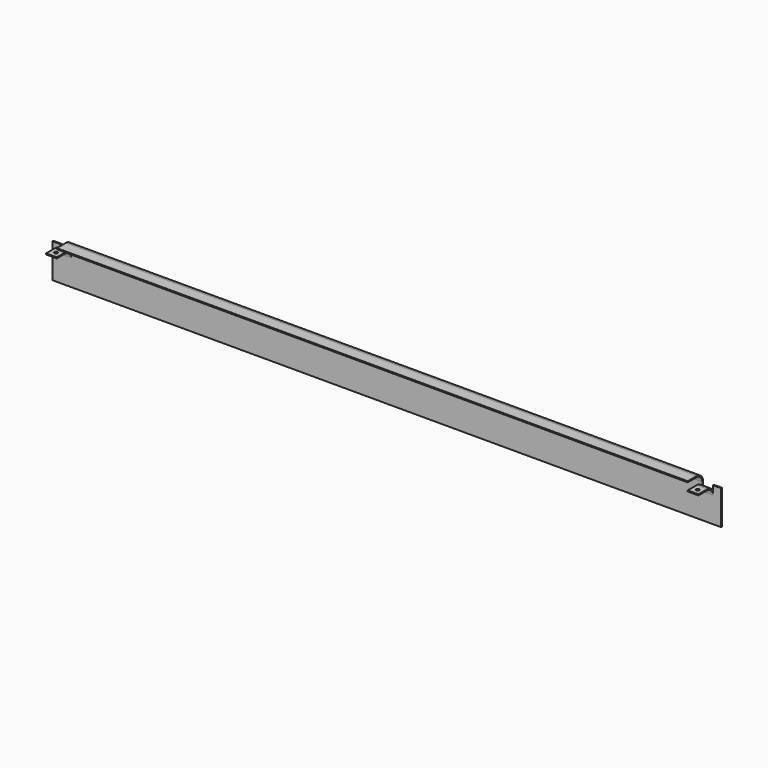
from build123d import *

# Parameters (mm, degrees)
F0_W      = 2
F0_H      = 64
F1_DEPTH  = 15
F3_DEPTH  = 20
F5_DEPTH  = 1177
F7_DEPTH  = 20
F8_W      = 2
F8_H      = 64
F9_DEPTH  = 15
F10_R     = 3
F11_DEPTH = 2
F12_R     = 3
F13_DEPTH = 2


with BuildPart() as f1:
    # F0 (on Right) → F1 (new body)
    with BuildSketch(Plane.YZ):
        Rectangle(F0_W, F0_H)
    extrude(amount=F1_DEPTH)



with BuildPart() as f3:
    # F2 (on face) → F3 (new body)
    with BuildSketch(Plane.YZ.offset(1212)):
        with BuildLine():
            Line((-1, -32), (1, -32))
            Line((1, -32), (1, 16))
            ThreePointArc((1, 16), (-3.393398, 26.606602), (-14, 31))
            Line((-14, 31), (-35, 31))
            Line((-35, 31), (-35, 29))
            Line((-35, 29), (-14, 29))
            ThreePointArc((-14, 29), (-4.807612, 25.192388), (-1, 16))
            Line((-1, 16), (-1, -32))
        make_face()
    extrude(amount=F3_DEPTH)

    # F4 (on face) → F5 (join)
    with BuildSketch(Plane.YZ.offset(35)):
        with BuildLine():
            Line((-1, -32), (1, -32))
            Line((1, -32), (1, 31))
            ThreePointArc((1, 31), (-3.393398, 41.606602), (-14, 46))
            Line((-14, 46), (-35, 46))
            Line((-35, 46), (-35, 44))
            Line((-35, 44), (-14, 44))
            ThreePointArc((-14, 44), (-4.807612, 40.192388), (-1, 31))
            Line((-1, 31), (-1, -32))
        make_face()
    extrude(amount=F5_DEPTH)


with BuildPart() as f1_1:
    add(f1.part)

    add(f3.part)  # F7 merges F3
    # F6 (on face) → F7 (join)
    with BuildSketch(Plane.YZ.offset(15)):
        with BuildLine():
            Line((-1, -32), (1, -32))
            Line((1, -32), (1, 16))
            ThreePointArc((1, 16), (-3.393398, 26.606602), (-14, 31))
            Line((-14, 31), (-35, 31))
            Line((-35, 31), (-35, 29))
            Line((-35, 29), (-14, 29))
            ThreePointArc((-14, 29), (-4.807612, 25.192388), (-1, 16))
            Line((-1, 16), (-1, -32))
        make_face()
    extrude(amount=F7_DEPTH)

    # F8 (on face) → F9 (join)
    with BuildSketch(Plane.YZ.offset(1232)):
        Rectangle(F8_W, F8_H)
    extrude(amount=F9_DEPTH)

    # F10 (on face) → F11 (cut)
    with BuildSketch(Plane.XY.offset(31)):
        with Locations((1222, -24.5)):
            Circle(F10_R)
    extrude(amount=-F11_DEPTH, mode=Mode.SUBTRACT)

    # F12 (on face) → F13 (cut)
    with BuildSketch(Plane.XY.offset(31)):
        with Locations((25, -24.5)):
            Circle(F12_R)
    extrude(amount=-F13_DEPTH, mode=Mode.SUBTRACT)


solid = f1_1.part
